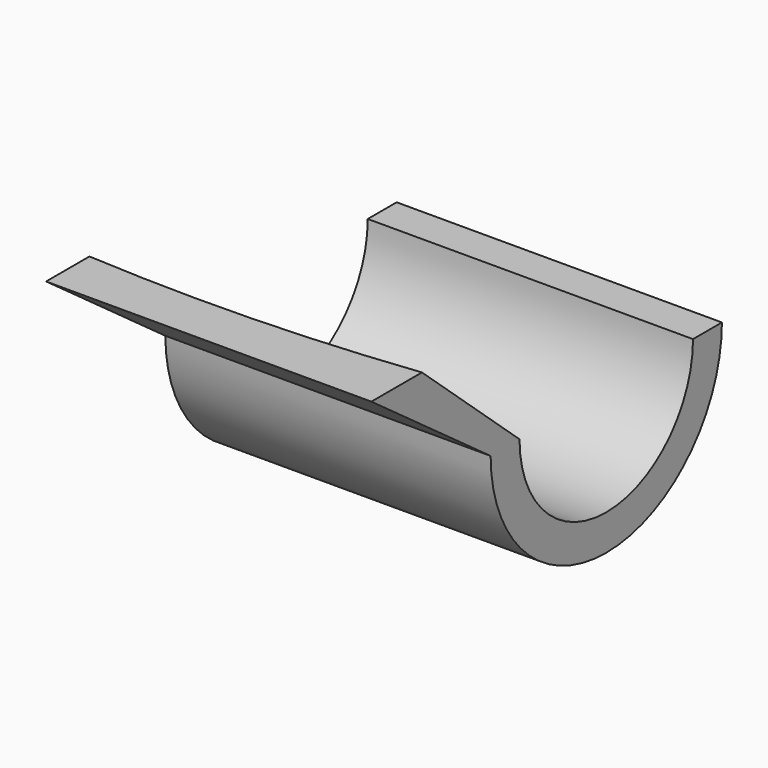
from build123d import *

# Parameters (mm, degrees)
F2_FACE_W = 36
F2_FACE_H = 4


with BuildPart() as f2:
    # F2: sweep along a path in F1
    with BuildLine(Plane.XY) as f2_path:
        Line((0, 0), (-36, 0))
    # F0 (on Right) → F2 (sweep)
    with BuildSketch(Plane.YZ):
        with BuildLine():
            ThreePointArc((12, 0), (0, -12), (-12, 0))
            Line((-12, 0), (-16, 0))
            ThreePointArc((-16, 0), (0, -15.9386387537), (16, 0))
            Line((16, 0), (12, 0))
        make_face()
    sweep(path=f2_path.line)

    # F2_face (on face) → F5 section 0
    with BuildSketch(Plane(origin=(-18, -14, 0), x_dir=(1, 0, 0), z_dir=(0, 0, 1))):
        Rectangle(F2_FACE_W, F2_FACE_H)
    # F4 (on offset) → F5 section 1
    with BuildSketch(Plane.XY.offset(12)):
        with BuildLine():
            ThreePointArc((0, -25.5), (-17.9775042284, -26.8098477779), (-36, -26.5))
            Line((-36, -26.5), (-36, -32.5))
            Line((-36, -32.5), (0, -32.5))
            Line((0, -32.5), (0, -25.5))
        make_face()
    loft()


solid = f2.part
